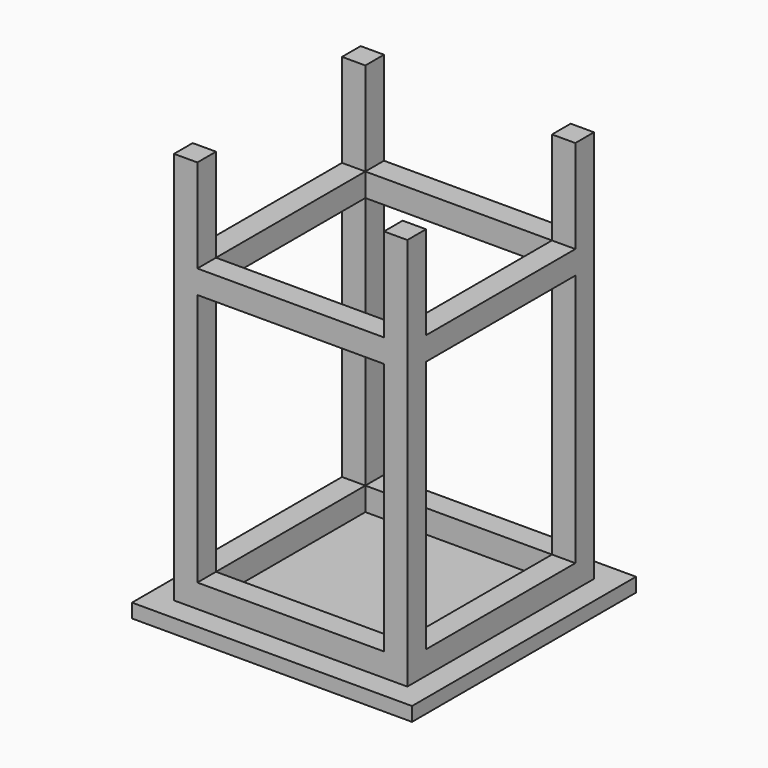
from build123d import *

# Parameters (mm, degrees)
F0_W      = 127
F0_H      = 127
F1_DEPTH  = 2140
F0_W_2    = 1524
F0_H_2    = 1524
F2_DEPTH  = 76.2
F6_W      = 127
F6_H      = 127
F7_DEPTH  = 1080
F5_W      = 127
F5_H      = 127
F8_DEPTH  = 1080
F4_W      = 127
F4_H      = 127
F9_DEPTH  = 1090
F3_W      = 127
F3_H      = 127
F10_DEPTH = 1070
F11_W     = 127
F11_H     = 127
F15_DEPTH = 1060
F12_W     = 127
F12_H     = 127
F16_DEPTH = 1090
F13_W     = 127
F13_H     = 127
F17_DEPTH = 1070
F14_W     = 127
F14_H     = 127
F18_DEPTH = 1100


with BuildPart() as f1:
    # F0 (on Top) → F1 (new body)
    with BuildSketch(Plane.XY):
        with Locations((190.5, 1333.5)):
            Rectangle(F0_W, F0_H)
    extrude(amount=F1_DEPTH)



with BuildPart() as f1b:
    # F0 (on Top) → F1, piece 2 (new body)
    with BuildSketch(Plane.XY):
        with Locations((1333.5, 1333.5)):
            Rectangle(F0_W, F0_H)
    extrude(amount=F1_DEPTH)


with BuildPart() as f1c:
    # F0 (on Top) → F1, piece 3 (new body)
    with BuildSketch(Plane.XY):
        with Locations((1333.5, 190.5)):
            Rectangle(F0_W, F0_H)
    extrude(amount=F1_DEPTH)


with BuildPart() as f1d:
    # F0 (on Top) → F1, piece 4 (new body)
    with BuildSketch(Plane.XY):
        with Locations((190.5, 190.5)):
            Rectangle(F0_W, F0_H)
    extrude(amount=F1_DEPTH)


with BuildPart() as f1_1:
    add(f1.part)

    add(f1b.part)  # F2 merges F1b

    add(f1c.part)  # F2 merges F1c

    add(f1d.part)  # F2 merges F1d
    # F0 (on Top) → F2 (join)
    with BuildSketch(Plane.XY):
        with Locations((762, 762)):
            Rectangle(F0_W_2, F0_H_2)
        with Locations((190.5, 190.5)):
            Rectangle(F0_W, F0_H, mode=Mode.SUBTRACT)
        with Locations((1333.5, 190.5)):
            Rectangle(F0_W, F0_H, mode=Mode.SUBTRACT)
        with Locations((190.5, 1333.5)):
            Rectangle(F0_W, F0_H, mode=Mode.SUBTRACT)
        with Locations((1333.5, 1333.5)):
            Rectangle(F0_W, F0_H, mode=Mode.SUBTRACT)
        with Locations((190.5, 1333.5)):
            Rectangle(F0_W, F0_H)
        with Locations((1333.5, 1333.5)):
            Rectangle(F0_W, F0_H)
        with Locations((1333.5, 190.5)):
            Rectangle(F0_W, F0_H)
        with Locations((190.5, 190.5)):
            Rectangle(F0_W, F0_H)
    extrude(amount=-F2_DEPTH)

    # F6 (on face) → F7 (join)
    with BuildSketch(Plane(origin=(0, 254, 0), x_dir=(-1, 0, 0), z_dir=(0, 1, 0))):
        with Locations((-190.5, 1568.5)):
            Rectangle(F6_W, F6_H)
    extrude(amount=F7_DEPTH)

    # F5 (on face) → F8 (join)
    with BuildSketch(Plane.YZ.offset(254)):
        with Locations((1333.5, 1568.5)):
            Rectangle(F5_W, F5_H)
    extrude(amount=F8_DEPTH)

    # F4 (on face) → F9 (join)
    with BuildSketch(Plane.XZ.offset(-1270)):
        with Locations((1333.5, 1568.5)):
            Rectangle(F4_W, F4_H)
    extrude(amount=F9_DEPTH)

    # F3 (on face) → F10 (join)
    with BuildSketch(Plane(origin=(1270, 0, 0), x_dir=(0, -1, 0), z_dir=(-1, 0, 0))):
        with Locations((-190.5, 1568.5)):
            Rectangle(F3_W, F3_H)
    extrude(amount=F10_DEPTH)

    # F11 (on face) → F15 (join)
    with BuildSketch(Plane.XZ.offset(-1270)):
        with Locations((1333.5, 63.5)):
            Rectangle(F11_W, F11_H)
    extrude(amount=F15_DEPTH)

    # F12 (on face) → F16 (join)
    with BuildSketch(Plane(origin=(1270, 0, 0), x_dir=(0, -1, 0), z_dir=(-1, 0, 0))):
        with Locations((-190.5, 63.5)):
            Rectangle(F12_W, F12_H)
    extrude(amount=F16_DEPTH)

    # F13 (on face) → F17 (join)
    with BuildSketch(Plane(origin=(0, 254, 0), x_dir=(-1, 0, 0), z_dir=(0, 1, 0))):
        with Locations((-190.5, 63.5)):
            Rectangle(F13_W, F13_H)
    extrude(amount=F17_DEPTH)

    # F14 (on face) → F18 (join)
    with BuildSketch(Plane.YZ.offset(254)):
        with Locations((1333.5, 63.5)):
            Rectangle(F14_W, F14_H)
    extrude(amount=F18_DEPTH)


solid = f1_1.part
